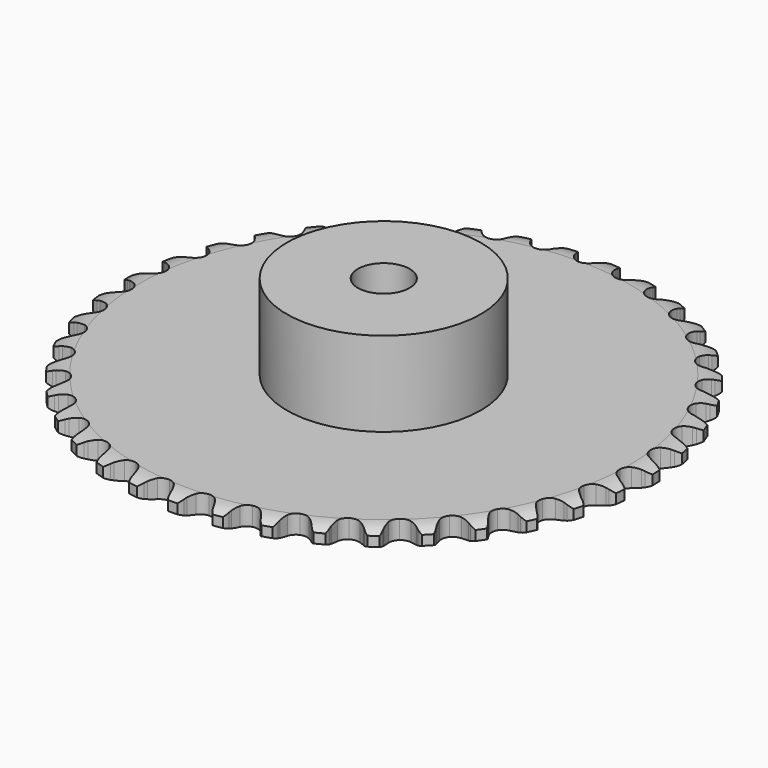
from build123d import *

# Parameters (mm, degrees)
PAD_DEPTH         = 2.9
SKETCH001_R       = 15
PAD001_DEPTH      = 16
SKETCH002_R       = 4
POCKET_DEPTH      = 0.001
POCKET_DEPTH_BACK = 16.001


with BuildPart() as part:
    # Sprocket → Pad (new body)
    with BuildSketch(Plane.XY):
        with BuildLine():
            ThreePointArc((-3.343363, 41.414983), (-2.598657, 40.815422), (-2.115282, 39.990553))
            Line((-2.115282, 39.990553), (-1.954372, 39.547841))
            ThreePointArc((-1.954372, 39.547841), (-1.698493, 38.97623), (-1.362945, 38.447437))
            ThreePointArc((-1.362945, 38.447437), (-0.763016, 37.942319), (0, 37.76103))
            ThreePointArc((0, 37.76103), (0.763016, 37.942319), (1.362945, 38.447437))
            ThreePointArc((1.362945, 38.447437), (1.698493, 38.97623), (1.954372, 39.547841))
            Line((1.954372, 39.547841), (2.115282, 39.990553))
            ThreePointArc((2.115282, 39.990553), (2.598657, 40.815422), (3.343363, 41.414983))
            ThreePointArc((3.343363, 41.414983), (3.982249, 40.703727), (4.327047, 39.812001))
            Line((4.327047, 39.812001), (4.414857, 39.34921))
            ThreePointArc((4.414857, 39.34921), (4.575729, 38.743955), (4.822108, 38.168185))
            ThreePointArc((4.822108, 38.168185), (5.333241, 37.573373), (6.057295, 37.272035))
            ThreePointArc((6.057295, 37.272035), (6.839511, 37.32858), (7.512698, 37.730922))
            Line((7.512698, 37.730922), (8.272983, 38.722204))
            ThreePointArc((8.272983, 38.722204), (8.382317, 38.930911), (8.502825, 39.133371))
            ThreePointArc((8.502825, 39.133371), (9.112259, 39.870019), (9.943498, 40.342357))
            ThreePointArc((9.943498, 40.342357), (10.460017, 39.537827), (10.657307, 38.602339))
            Line((10.657307, 38.602339), (10.669743, 38.131456))
            ThreePointArc((10.669743, 38.131456), (10.731442, 37.508233), (10.88227, 36.900397))
            ThreePointArc((10.88227, 36.900397), (11.29137, 36.231295), (11.95771, 35.817713))
            ThreePointArc((11.95771, 35.817713), (12.738867, 35.74805), (13.467876, 36.037195))
            Line((13.467876, 36.037195), (14.377329, 36.893682))
            ThreePointArc((14.377329, 36.893682), (14.518725, 37.082147), (14.67015, 37.262655))
            ThreePointArc((14.67015, 37.262655), (15.389859, 37.892004), (16.286101, 38.224885))
            ThreePointArc((16.286101, 38.224885), (16.666876, 37.347918), (16.711548, 36.392897))
            Line((16.711548, 36.392897), (16.648288, 35.926116))
            ThreePointArc((16.648288, 35.926116), (16.609216, 35.301067), (16.660587, 34.676907))
            ThreePointArc((16.660587, 34.676907), (16.957058, 33.950846), (17.548426, 33.435732))
            ThreePointArc((17.548426, 33.435732), (18.308292, 33.241664), (19.074243, 33.410123))
            Line((19.074243, 33.410123), (20.109309, 34.109632))
            ThreePointArc((20.109309, 34.109632), (20.279107, 34.272976), (20.457526, 34.426856))
            ThreePointArc((20.457526, 34.426856), (21.268869, 34.932605), (22.206903, 35.117408))
            ThreePointArc((22.206903, 35.117408), (22.442072, 34.190717), (22.332969, 33.240898))
            Line((22.332969, 33.240898), (22.195651, 32.790309))
            ThreePointArc((22.195651, 32.790309), (22.05682, 32.179621), (22.007404, 31.555304))
            ThreePointArc((22.007404, 31.555304), (22.183567, 30.791089), (22.684647, 30.187782))
            ThreePointArc((22.684647, 30.187782), (23.403542, 29.874337), (24.186597, 29.917747))
            Line((24.186597, 29.917747), (25.320468, 30.442162))
            ThreePointArc((25.320468, 30.442162), (25.514269, 30.576153), (25.715062, 30.699419))
            ThreePointArc((25.715062, 30.699419), (26.597027, 31.068471), (27.552558, 31.100409))
            ThreePointArc((27.552558, 31.100409), (27.636029, 30.147995), (27.375978, 29.227976))
            Line((27.375978, 29.227976), (27.168159, 28.805251))
            ThreePointArc((27.168159, 28.805251), (26.933164, 28.224741), (26.784241, 27.616435))
            ThreePointArc((26.784241, 27.616435), (26.835534, 26.833858), (27.233347, 26.157985))
            ThreePointArc((27.233347, 26.157985), (27.892653, 25.73328), (28.672531, 25.650517))
            Line((28.672531, 25.650517), (29.875841, 25.986255))
            ThreePointArc((29.875841, 25.986255), (30.088626, 26.087423), (30.306592, 26.176884))
            ThreePointArc((30.306592, 26.176884), (31.236335, 26.399679), (32.184616, 26.277926))
            ThreePointArc((32.184616, 26.277926), (32.114229, 25.324455), (31.709963, 24.458066))
            Line((31.709963, 24.458066), (31.437026, 24.074151))
            ThreePointArc((31.437026, 24.074151), (31.111954, 23.538855), (30.86738, 22.962316))
            ThreePointArc((30.86738, 22.962316), (30.792474, 22.181644), (31.076719, 21.45071))
            ThreePointArc((31.076719, 21.45071), (31.659359, 20.925744), (32.415862, 20.718952))
            Line((32.415862, 20.718952), (33.657445, 20.857318))
            ThreePointArc((33.657445, 20.857318), (33.883703, 20.923042), (34.113197, 20.976381))
            ThreePointArc((34.113197, 20.976381), (35.066639, 21.04715), (35.98311, 20.774858))
            ThreePointArc((35.98311, 20.774858), (35.760686, 19.845026), (35.222677, 19.054705))
            Line((35.222677, 19.054705), (34.89169, 18.719544))
            ThreePointArc((34.89169, 18.719544), (34.48496, 18.243324), (34.15107, 17.713484))
            ThreePointArc((34.15107, 17.713484), (33.951906, 16.954937), (34.115219, 16.187873))
            ThreePointArc((34.115219, 16.187873), (34.606104, 15.576243), (35.319638, 15.250777))
            Line((35.319638, 15.250777), (36.567339, 15.188187))
            ThreePointArc((36.567339, 15.188187), (36.80121, 15.216766), (37.036288, 15.232601))
            ThreePointArc((37.036288, 15.232601), (37.988736, 15.14951), (38.84966, 14.733732))
            ThreePointArc((38.84966, 14.733732), (38.480961, 13.85162), (37.823142, 13.157837))
            Line((37.823142, 13.157837), (37.442677, 12.88011))
            ThreePointArc((37.442677, 12.88011), (36.964824, 12.475301), (36.550265, 12.005882))
            ThreePointArc((36.550265, 12.005882), (36.232, 11.289107), (36.270153, 10.505778))
            ThreePointArc((36.270153, 10.505778), (36.656569, 9.823325), (37.308655, 9.387615))
            Line((37.308655, 9.387615), (38.530158, 9.12569))
            ThreePointArc((38.530158, 9.12569), (38.765585, 9.116384), (39.000159, 9.094304))
            ThreePointArc((39.000159, 9.094304), (39.926944, 8.859506), (40.710024, 8.311011))
            ThreePointArc((40.710024, 8.311011), (40.204598, 7.499465), (39.444008, 6.920187))
            Line((39.444008, 6.920187), (39.02392, 6.707088))
            ThreePointArc((39.02392, 6.707088), (38.487318, 6.384175), (38.002828, 5.987334))
            ThreePointArc((38.002828, 5.987334), (37.573706, 5.330894), (37.48571, 4.551589))
            ThreePointArc((37.48571, 4.551589), (37.757648, 3.815988), (38.331397, 3.281319))
            Line((38.331397, 3.281319), (39.495067, 2.826843))
            ThreePointArc((39.495067, 2.826843), (39.725952, 2.779892), (39.953946, 2.72047))
            ThreePointArc((39.953946, 2.72047), (40.831065, 2.340046), (41.516019, 1.673038))
            ThreePointArc((41.516019, 1.673038), (40.886958, 0.953078), (40.043295, 0.503309))
            Line((40.043295, 0.503309), (39.594463, 0.360356))
            ThreePointArc((39.594463, 0.360356), (39.013011, 0.127701), (38.471137, -0.186283))
            ThreePointArc((38.471137, -0.186283), (37.942272, -0.765386), (37.730406, -1.520483))
            ThreePointArc((37.730406, -1.520483), (37.880824, -2.29018), (38.361376, -2.909962))
            Line((38.361376, -2.909962), (39.437073, -3.545218))
            ThreePointArc((39.437073, -3.545218), (39.657437, -3.628598), (39.872947, -3.723823))
            ThreePointArc((39.872947, -3.723823), (40.677684, -4.240021), (41.246772, -5.008265))
            ThreePointArc((41.246772, -5.008265), (40.510367, -5.617993), (39.605481, -5.926605))
            Line((39.605481, -5.926605), (39.13953, -5.995709))
            ThreePointArc((39.13953, -5.995709), (38.528288, -6.132079), (37.943064, -6.355075))
            ThreePointArc((37.943064, -6.355075), (37.328153, -6.841843), (36.997904, -7.553176))
            ThreePointArc((36.997904, -7.553176), (37.022907, -8.337035), (37.397816, -9.025876))
            Line((37.397816, -9.025876), (38.357681, -9.82546))
            ThreePointArc((38.357681, -9.82546), (38.561816, -9.943109), (38.75926, -10.071671))
            ThreePointArc((38.75926, -10.071671), (39.470771, -10.710273), (39.909255, -11.559857))
            ThreePointArc((39.909255, -11.559857), (39.084579, -12.043562), (38.141906, -12.203023))
            Line((38.141906, -12.203023), (37.670904, -12.196488))
            ThreePointArc((37.670904, -12.196488), (37.045702, -12.233043), (36.432285, -12.359274))
            ThreePointArc((36.432285, -12.359274), (35.747254, -12.741099), (35.307177, -13.390246))
            ThreePointArc((35.307177, -13.390246), (35.206116, -14.167964), (35.465672, -14.908025))
            Line((35.465672, -14.908025), (36.284844, -15.851227))
            ThreePointArc((36.284844, -15.851227), (36.467464, -16.000098), (36.641728, -16.158668))
            ThreePointArc((36.641728, -16.158668), (37.241586, -16.903135), (37.538109, -17.812054))
            ThreePointArc((37.538109, -17.812054), (36.646521, -18.157208), (35.690476, -18.163389))
            Line((35.690476, -18.163389), (35.226621, -18.081385))
            ThreePointArc((35.226621, -18.081385), (34.603652, -18.017176), (33.97793, -18.043374))
            ThreePointArc((33.97793, -18.043374), (33.24052, -18.310368), (32.702011, -18.880515))
            ThreePointArc((32.702011, -18.880515), (32.477504, -19.631951), (32.614985, -20.404064))
            Line((32.614985, -20.404064), (33.272249, -21.466456))
            ThreePointArc((33.272249, -21.466456), (33.428623, -21.642694), (33.575194, -21.827164))
            ThreePointArc((33.575194, -21.827164), (34.047864, -22.658214), (34.194746, -23.602929))
            ThreePointArc((34.194746, -23.602929), (33.259337, -23.800592), (32.314681, -23.653333))
            Line((32.314681, -23.653333), (31.869988, -23.497983))
            ThreePointArc((31.869988, -23.497983), (31.265385, -23.334675), (30.643564, -23.26016))
            ThreePointArc((30.643564, -23.26016), (29.872875, -23.405408), (29.249881, -23.881789))
            ThreePointArc((29.249881, -23.881789), (28.907743, -24.58748), (28.919588, -25.371648))
            Line((28.919588, -25.371648), (29.397921, -26.525716))
            ThreePointArc((29.397921, -26.525716), (29.523999, -26.724755), (29.639081, -26.930348))
            ThreePointArc((29.639081, -26.930348), (29.97232, -27.826458), (29.965757, -28.7825))
            ThreePointArc((29.965757, -28.7825), (29.010754, -28.827554), (28.101953, -28.530668))
            Line((28.101953, -28.530668), (27.687938, -28.305996))
            ThreePointArc((27.687938, -28.305996), (27.117362, -28.047817), (26.515546, -27.874521))
            ThreePointArc((26.515546, -27.874521), (25.731537, -27.894261), (25.040195, -28.264537))
            ThreePointArc((25.040195, -28.264537), (24.589286, -28.906207), (24.475188, -29.68212))
            Line((24.475188, -29.68212), (24.762201, -30.897973))
            ThreePointArc((24.762201, -30.897973), (24.854719, -31.114659), (24.935331, -31.33605))
            ThreePointArc((24.935331, -31.33605), (25.120509, -32.274011), (24.960671, -33.21662))
            ThreePointArc((24.960671, -33.21662), (24.010808, -33.107897), (23.161399, -32.669073))
            Line((23.161399, -32.669073), (22.788785, -32.380898))
            ThreePointArc((22.788785, -32.380898), (22.267013, -32.034536), (21.700789, -31.766945))
            ThreePointArc((21.700789, -31.766945), (20.923767, -31.660666), (20.18198, -31.915248))
            ThreePointArc((20.18198, -31.915248), (19.633979, -32.476278), (19.396894, -33.22384))
            Line((19.396894, -33.22384), (19.485154, -34.469988))
            ThreePointArc((19.485154, -34.469988), (19.541715, -34.698709), (19.585769, -34.930165))
            ThreePointArc((19.585769, -34.930165), (19.618089, -35.885684), (19.309116, -36.790447))
            ThreePointArc((19.309116, -36.790447), (18.388994, -36.530763), (17.620977, -35.961367))
            Line((17.620977, -35.961367), (17.299415, -35.617153))
            ThreePointArc((17.299415, -35.617153), (16.83996, -35.191577), (16.323993, -34.836623))
            ThreePointArc((16.323993, -34.836623), (15.574081, -34.607077), (14.801063, -34.739372))
            ThreePointArc((14.801063, -34.739372), (14.170163, -35.205231), (13.81623, -35.905081))
            Line((13.81623, -35.905081), (13.703451, -37.14925))
            ThreePointArc((13.703451, -37.14925), (13.72259, -37.384082), (13.728946, -37.619607))
            ThreePointArc((13.728946, -37.619607), (13.607572, -38.567936), (13.157465, -39.41142))
            ThreePointArc((13.157465, -39.41142), (12.290915, -39.007501), (11.624181, -38.322281))
            Line((11.624181, -38.322281), (11.361999, -37.930941))
            ThreePointArc((11.361999, -37.930941), (10.976761, -37.437175), (10.524414, -37.004051))
            ThreePointArc((10.524414, -37.004051), (9.821035, -36.657183), (9.036806, -36.663763))
            ThreePointArc((9.036806, -36.663763), (8.339347, -37.022386), (7.877734, -37.656399))
            Line((7.877734, -37.656399), (7.566836, -38.866365))
            ThreePointArc((7.566836, -38.866365), (7.548058, -39.101226), (7.51655, -39.334721))
            ThreePointArc((7.51655, -39.334721), (7.244625, -40.2513), (6.665043, -41.011658))
            ThreePointArc((6.665043, -41.011658), (5.874507, -40.473965), (5.326325, -39.690667))
            Line((5.326325, -39.690667), (5.130314, -39.262338))
            ThreePointArc((5.130314, -39.262338), (4.829269, -38.71317), (4.452259, -38.213093))
            ThreePointArc((4.452259, -38.213093), (3.81363, -37.757887), (3.038501, -37.638583))
            ThreePointArc((3.038501, -37.638583), (2.292546, -37.880681), (1.735208, -38.432436))
            Line((1.735208, -38.432436), (1.234245, -39.576861))
            ThreePointArc((1.234245, -39.576861), (1.178035, -39.805669), (1.10948, -40.031086))
            ThreePointArc((1.10948, -40.031086), (0.694047, -40.892175), (0, -41.549716))
            ThreePointArc((0, -41.549716), (-0.694047, -40.892175), (-1.10948, -40.031086))
            Line((-1.10948, -40.031086), (-1.234245, -39.576861))
            ThreePointArc((-1.234245, -39.576861), (-1.443298, -38.986514), (-1.735208, -38.432436))
            ThreePointArc((-1.735208, -38.432436), (-2.292546, -37.880681), (-3.038501, -37.638583))
            ThreePointArc((-3.038501, -37.638583), (-3.81363, -37.757887), (-4.452259, -38.213093))
            Line((-4.452259, -38.213093), (-5.130314, -39.262338))
            ThreePointArc((-5.130314, -39.262338), (-5.222499, -39.479166), (-5.326325, -39.690667))
            ThreePointArc((-5.326325, -39.690667), (-5.874507, -40.473965), (-6.665043, -41.011658))
            ThreePointArc((-6.665043, -41.011658), (-7.244625, -40.2513), (-7.51655, -39.334721))
            Line((-7.51655, -39.334721), (-7.566836, -38.866365))
            ThreePointArc((-7.566836, -38.866365), (-7.678484, -38.250127), (-7.877734, -37.656399))
            ThreePointArc((-7.877734, -37.656399), (-8.339347, -37.022386), (-9.036806, -36.663763))
            ThreePointArc((-9.036806, -36.663763), (-9.821035, -36.657183), (-10.524414, -37.004051))
            Line((-10.524414, -37.004051), (-11.361999, -37.930941))
            ThreePointArc((-11.361999, -37.930941), (-11.487773, -38.130173), (-11.624181, -38.322281))
            ThreePointArc((-11.624181, -38.322281), (-12.290915, -39.007501), (-13.157465, -39.41142))
            ThreePointArc((-13.157465, -39.41142), (-13.607572, -38.567936), (-13.728946, -37.619607))
            Line((-13.728946, -37.619607), (-13.703451, -37.14925))
            ThreePointArc((-13.703451, -37.14925), (-13.714802, -36.523083), (-13.81623, -35.905081))
            ThreePointArc((-13.81623, -35.905081), (-14.170163, -35.205231), (-14.801063, -34.739372))
            ThreePointArc((-14.801063, -34.739372), (-15.574081, -34.607077), (-16.323993, -34.836623))
            Line((-16.323993, -34.836623), (-17.299415, -35.617153))
            ThreePointArc((-17.299415, -35.617153), (-17.455519, -35.793629), (-17.620977, -35.961367))
            ThreePointArc((-17.620977, -35.961367), (-18.388994, -36.530763), (-19.309116, -36.790447))
            ThreePointArc((-19.309116, -36.790447), (-19.618089, -35.885684), (-19.585769, -34.930165))
            Line((-19.585769, -34.930165), (-19.485154, -34.469988))
            ThreePointArc((-19.485154, -34.469988), (-19.395913, -33.850109), (-19.396894, -33.22384))
            ThreePointArc((-19.396894, -33.22384), (-19.633979, -32.476278), (-20.18198, -31.915248))
            ThreePointArc((-20.18198, -31.915248), (-20.923767, -31.660666), (-21.700789, -31.766945))
            Line((-21.700789, -31.766945), (-22.788785, -32.380898))
            ThreePointArc((-22.788785, -32.380898), (-22.971176, -32.530049), (-23.161399, -32.669073))
            ThreePointArc((-23.161399, -32.669073), (-24.010808, -33.107897), (-24.960671, -33.21662))
            ThreePointArc((-24.960671, -33.21662), (-25.120509, -32.274011), (-24.935331, -31.33605))
            Line((-24.935331, -31.33605), (-24.762201, -30.897973))
            ThreePointArc((-24.762201, -30.897973), (-24.57468, -30.300436), (-24.475188, -29.68212))
            ThreePointArc((-24.475188, -29.68212), (-24.589286, -28.906207), (-25.040195, -28.264537))
            ThreePointArc((-25.040195, -28.264537), (-25.731537, -27.894261), (-26.515546, -27.874521))
            Line((-26.515546, -27.874521), (-27.687938, -28.305996))
            ThreePointArc((-27.687938, -28.305996), (-27.891893, -28.423958), (-28.101953, -28.530668))
            ThreePointArc((-28.101953, -28.530668), (-29.010754, -28.827554), (-29.965757, -28.7825))
            ThreePointArc((-29.965757, -28.7825), (-29.97232, -27.826458), (-29.639081, -26.930348))
            Line((-29.639081, -26.930348), (-29.397921, -26.525716))
            ThreePointArc((-29.397921, -26.525716), (-29.116977, -25.965998), (-28.919588, -25.371648))
            ThreePointArc((-28.919588, -25.371648), (-28.907743, -24.58748), (-29.249881, -23.881789))
            ThreePointArc((-29.249881, -23.881789), (-29.872875, -23.405408), (-30.643564, -23.26016))
            Line((-30.643564, -23.26016), (-31.869988, -23.497983))
            ThreePointArc((-31.869988, -23.497983), (-32.090223, -23.581701), (-32.314681, -23.653333))
            ThreePointArc((-32.314681, -23.653333), (-33.259337, -23.800592), (-34.194746, -23.602929))
            ThreePointArc((-34.194746, -23.602929), (-34.047864, -22.658214), (-33.575194, -21.827164))
            Line((-33.575194, -21.827164), (-33.272249, -21.466456))
            ThreePointArc((-33.272249, -21.466456), (-32.905158, -20.959053), (-32.614985, -20.404064))
            ThreePointArc((-32.614985, -20.404064), (-32.477504, -19.631951), (-32.702011, -18.880515))
            ThreePointArc((-32.702011, -18.880515), (-33.24052, -18.310368), (-33.97793, -18.043374))
            Line((-33.97793, -18.043374), (-35.226621, -18.081385))
            ThreePointArc((-35.226621, -18.081385), (-35.457434, -18.12869), (-35.690476, -18.163389))
            ThreePointArc((-35.690476, -18.163389), (-36.646521, -18.157208), (-37.538109, -17.812054))
            ThreePointArc((-37.538109, -17.812054), (-37.241586, -16.903135), (-36.641728, -16.158668))
            Line((-36.641728, -16.158668), (-36.284844, -15.851227))
            ThreePointArc((-36.284844, -15.851227), (-35.841114, -15.40928), (-35.465672, -14.908025))
            ThreePointArc((-35.465672, -14.908025), (-35.206116, -14.167964), (-35.307177, -13.390246))
            ThreePointArc((-35.307177, -13.390246), (-35.747254, -12.741099), (-36.432285, -12.359274))
            Line((-36.432285, -12.359274), (-37.670904, -12.196488))
            ThreePointArc((-37.670904, -12.196488), (-37.906316, -12.206156), (-38.141906, -12.203023))
            ThreePointArc((-38.141906, -12.203023), (-39.084579, -12.043562), (-39.909255, -11.559857))
            ThreePointArc((-39.909255, -11.559857), (-39.470771, -10.710273), (-38.75926, -10.071671))
            Line((-38.75926, -10.071671), (-38.357681, -9.82546))
            ThreePointArc((-38.357681, -9.82546), (-37.848803, -9.460415), (-37.397816, -9.025876))
            ThreePointArc((-37.397816, -9.025876), (-37.022907, -8.337035), (-36.997904, -7.553176))
            ThreePointArc((-36.997904, -7.553176), (-37.328153, -6.841843), (-37.943064, -6.355075))
            Line((-37.943064, -6.355075), (-39.13953, -5.995709))
            ThreePointArc((-39.13953, -5.995709), (-39.373444, -5.967489), (-39.605481, -5.926605))
            ThreePointArc((-39.605481, -5.926605), (-40.510367, -5.617993), (-41.246772, -5.008265))
            ThreePointArc((-41.246772, -5.008265), (-40.677684, -4.240021), (-39.872947, -3.723823))
            Line((-39.872947, -3.723823), (-39.437073, -3.545218))
            ThreePointArc((-39.437073, -3.545218), (-38.876228, -3.26653), (-38.361376, -2.909962))
            ThreePointArc((-38.361376, -2.909962), (-37.880824, -2.29018), (-37.730406, -1.520483))
            ThreePointArc((-37.730406, -1.520483), (-37.942272, -0.765386), (-38.471137, -0.186283))
            Line((-38.471137, -0.186283), (-39.594463, 0.360356))
            ThreePointArc((-39.594463, 0.360356), (-39.820821, 0.425733), (-40.043295, 0.503309))
            ThreePointArc((-40.043295, 0.503309), (-40.886958, 0.953078), (-41.516019, 1.673038))
            ThreePointArc((-41.516019, 1.673038), (-40.831065, 2.340046), (-39.953946, 2.72047))
            Line((-39.953946, 2.72047), (-39.495067, 2.826843))
            ThreePointArc((-39.495067, 2.826843), (-38.89678, 3.011956), (-38.331397, 3.281319))
            ThreePointArc((-38.331397, 3.281319), (-37.757648, 3.815988), (-37.48571, 4.551589))
            ThreePointArc((-37.48571, 4.551589), (-37.573706, 5.330894), (-38.002828, 5.987334))
            Line((-38.002828, 5.987334), (-39.02392, 6.707088))
            ThreePointArc((-39.02392, 6.707088), (-39.23686, 6.807929), (-39.444008, 6.920187))
            ThreePointArc((-39.444008, 6.920187), (-40.204598, 7.499465), (-40.710024, 8.311011))
            ThreePointArc((-40.710024, 8.311011), (-39.926944, 8.859506), (-39.000159, 9.094304))
            Line((-39.000159, 9.094304), (-38.530158, 9.12569))
            ThreePointArc((-38.530158, 9.12569), (-37.909925, 9.212434), (-37.308655, 9.387615))
            ThreePointArc((-37.308655, 9.387615), (-36.656569, 9.823325), (-36.270153, 10.505778))
            ThreePointArc((-36.270153, 10.505778), (-36.232, 11.289107), (-36.550265, 12.005882))
            Line((-36.550265, 12.005882), (-37.442677, 12.88011))
            ThreePointArc((-37.442677, 12.88011), (-37.636684, 13.013803), (-37.823142, 13.157837))
            ThreePointArc((-37.823142, 13.157837), (-38.480961, 13.85162), (-38.84966, 14.733732))
            ThreePointArc((-38.84966, 14.733732), (-37.988736, 15.14951), (-37.036288, 15.232601))
            Line((-37.036288, 15.232601), (-36.567339, 15.188187))
            ThreePointArc((-36.567339, 15.188187), (-35.941223, 15.174315), (-35.319638, 15.250777))
            ThreePointArc((-35.319638, 15.250777), (-34.606104, 15.576243), (-34.115219, 16.187873))
            ThreePointArc((-34.115219, 16.187873), (-33.951906, 16.954937), (-34.15107, 17.713484))
            Line((-34.15107, 17.713484), (-34.89169, 18.719544))
            ThreePointArc((-34.89169, 18.719544), (-35.061738, 18.882627), (-35.222677, 19.054705))
            ThreePointArc((-35.222677, 19.054705), (-35.760686, 19.845026), (-35.98311, 20.774858))
            ThreePointArc((-35.98311, 20.774858), (-35.066639, 21.04715), (-34.113197, 20.976381))
            Line((-34.113197, 20.976381), (-33.657445, 20.857318))
            ThreePointArc((-33.657445, 20.857318), (-33.041662, 20.743189), (-32.415862, 20.718952))
            ThreePointArc((-32.415862, 20.718952), (-31.659359, 20.925744), (-31.076719, 21.45071))
            ThreePointArc((-31.076719, 21.45071), (-30.792474, 22.181644), (-30.86738, 22.962316))
            Line((-30.86738, 22.962316), (-31.437026, 24.074151))
            ThreePointArc((-31.437026, 24.074151), (-31.578711, 24.2624), (-31.709963, 24.458066))
            ThreePointArc((-31.709963, 24.458066), (-32.114229, 25.324455), (-32.184616, 26.277926))
            ThreePointArc((-32.184616, 26.277926), (-31.236335, 26.399679), (-30.306592, 26.176884))
            Line((-30.306592, 26.176884), (-29.875841, 25.986255))
            ThreePointArc((-29.875841, 25.986255), (-29.28634, 25.774826), (-28.672531, 25.650517))
            ThreePointArc((-28.672531, 25.650517), (-27.892653, 25.73328), (-27.233347, 26.157985))
            ThreePointArc((-27.233347, 26.157985), (-26.835534, 26.833858), (-26.784241, 27.616435))
            Line((-26.784241, 27.616435), (-27.168159, 28.805251))
            ThreePointArc((-27.168159, 28.805251), (-27.277813, 29.01379), (-27.375978, 29.227976))
            ThreePointArc((-27.375978, 29.227976), (-27.636029, 30.147995), (-27.552558, 31.100409))
            ThreePointArc((-27.552558, 31.100409), (-26.597027, 31.068471), (-25.715062, 30.699419))
            Line((-25.715062, 30.699419), (-25.320468, 30.442162))
            ThreePointArc((-25.320468, 30.442162), (-24.772517, 30.138908), (-24.186597, 29.917747))
            ThreePointArc((-24.186597, 29.917747), (-23.403542, 29.874337), (-22.684647, 30.187782))
            ThreePointArc((-22.684647, 30.187782), (-22.183567, 30.791089), (-22.007404, 31.555304))
            Line((-22.007404, 31.555304), (-22.195651, 32.790309))
            ThreePointArc((-22.195651, 32.790309), (-22.270433, 33.013737), (-22.332969, 33.240898))
            ThreePointArc((-22.332969, 33.240898), (-22.442072, 34.190717), (-22.206903, 35.117408))
            ThreePointArc((-22.206903, 35.117408), (-21.268869, 34.932605), (-20.457526, 34.426856))
            Line((-20.457526, 34.426856), (-20.109309, 34.109632))
            ThreePointArc((-20.109309, 34.109632), (-19.617098, 33.722408), (-19.074243, 33.410123))
            ThreePointArc((-19.074243, 33.410123), (-18.308292, 33.241664), (-17.548426, 33.435732))
            ThreePointArc((-17.548426, 33.435732), (-16.957058, 33.950846), (-16.660587, 34.676907))
            Line((-16.660587, 34.676907), (-16.648288, 35.926116))
            ThreePointArc((-16.648288, 35.926116), (-16.686261, 36.158647), (-16.711548, 36.392897))
            ThreePointArc((-16.711548, 36.392897), (-16.666876, 37.347918), (-16.286101, 38.224885))
            ThreePointArc((-16.286101, 38.224885), (-15.389859, 37.892004), (-14.67015, 37.262655))
            Line((-14.67015, 37.262655), (-14.377329, 36.893682))
            ThreePointArc((-14.377329, 36.893682), (-13.953607, 36.432516), (-13.467876, 36.037195))
            ThreePointArc((-13.467876, 36.037195), (-12.738867, 35.74805), (-11.95771, 35.817713))
            ThreePointArc((-11.95771, 35.817713), (-11.29137, 36.231295), (-10.88227, 36.900397))
            Line((-10.88227, 36.900397), (-10.669743, 38.131456))
            ThreePointArc((-10.669743, 38.131456), (-10.669923, 38.367066), (-10.657307, 38.602339))
            ThreePointArc((-10.657307, 38.602339), (-10.460017, 39.537827), (-9.943498, 40.342357))
            ThreePointArc((-9.943498, 40.342357), (-9.112259, 39.870019), (-8.502825, 39.133371))
            Line((-8.502825, 39.133371), (-8.272983, 38.722204))
            ThreePointArc((-8.272983, 38.722204), (-7.928725, 38.19904), (-7.512698, 37.730922))
            ThreePointArc((-7.512698, 37.730922), (-6.839511, 37.32858), (-6.057295, 37.272035))
            ThreePointArc((-6.057295, 37.272035), (-5.333241, 37.573373), (-4.822108, 38.168185))
            Line((-4.822108, 38.168185), (-4.414857, 39.34921))
            ThreePointArc((-4.414857, 39.34921), (-4.37724, 39.581799), (-4.327047, 39.812001))
            ThreePointArc((-4.327047, 39.812001), (-3.982249, 40.703727), (-3.343363, 41.414983))
        make_face()
    extrude(amount=PAD_DEPTH)

    # Sketch → Groove (revolve, cut)
    with BuildSketch(Plane.XZ):
        with BuildLine():
            Line((37.939674, 0), (40.85, 0))
            Line((43.760326, 0), (40.85, 0))
            Line((43.760326, 2.9), (43.760326, 0))
            Line((40.85, 2.9), (43.760326, 2.9))
            Line((37.939674, 2.9), (40.85, 2.9))
            ThreePointArc((40.85, 2.2), (39.436337, 2.72254), (37.939674, 2.9))
            Line((40.85, 0.7), (40.85, 2.2))
            ThreePointArc((37.939674, 0), (39.436337, 0.17746), (40.85, 0.7))
        make_face()
    revolve(axis=Axis((0, 0, 0), (0, 0, 1)), mode=Mode.SUBTRACT)

    # Sketch001 → Pad001 (join)
    with BuildSketch(Plane.XY):
        Circle(SKETCH001_R)
    extrude(amount=PAD001_DEPTH)

    # Sketch002 → Pocket (cut, two sides)
    with BuildSketch(Plane.XY) as pocket_sk:
        Circle(SKETCH002_R)
    extrude(amount=-POCKET_DEPTH, mode=Mode.SUBTRACT)
    extrude(pocket_sk.sketch, amount=POCKET_DEPTH_BACK, mode=Mode.SUBTRACT)


solid = part.part
